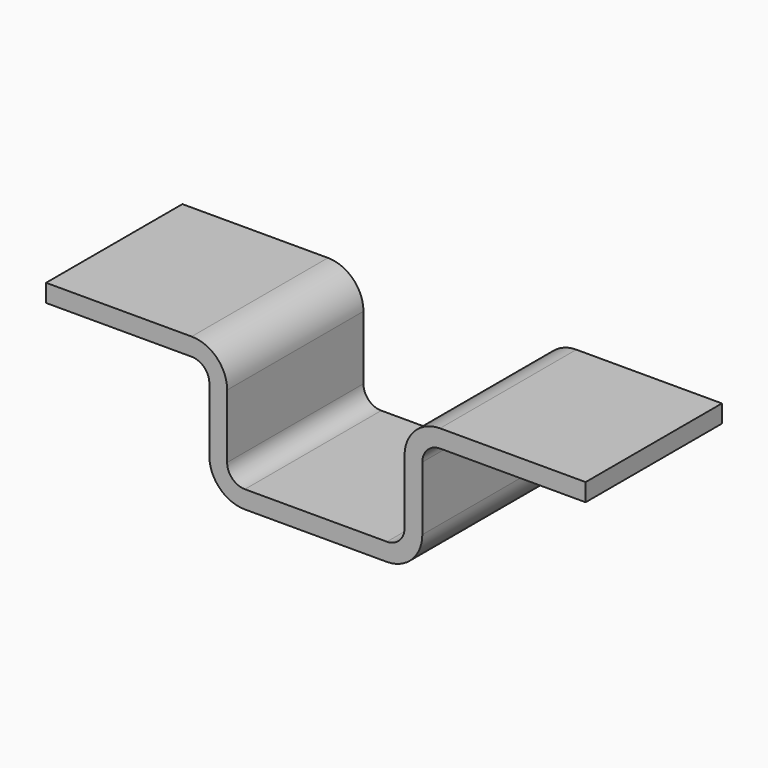
from build123d import *

# Parameters (mm, degrees)
F0_W     = 241.3
F0_H     = 76.2
F1_DEPTH = 60.325
F3_DEPTH = 76.201


with BuildPart() as f1:
    # F0 (on Top) → F1 (new body)
    with BuildSketch(Plane.XY):
        with Locations((120.65, 38.1)):
            Rectangle(F0_W, F0_H)
    extrude(amount=F1_DEPTH)

    # F2 (on Front) → F3 (cut, through all)
    with BuildSketch(Plane.XZ):
        with BuildLine():
            Line((65.0748, 52.3748), (0, 52.3748))
            Line((0, 52.3748), (0, 0))
            Line((0, 0), (88.9, 0))
            ThreePointArc((88.9, 0), (77.67468, 4.64968), (73.025, 15.875))
            Line((73.025, 15.875), (73.025, 44.4246))
            ThreePointArc((73.025, 44.4246), (70.69644, 50.04624), (65.0748, 52.3748))
        make_face()
        with BuildLine():
            Line((176.1998, 60.325), (65.1002, 60.325))
            ThreePointArc((65.1002, 60.325), (76.32552, 55.67532), (80.9752, 44.45))
            Line((80.9752, 44.45), (80.9752, 15.9004))
            ThreePointArc((80.9752, 15.9004), (83.30376, 10.27876), (88.9254, 7.9502))
            Line((88.9254, 7.9502), (152.44318, 7.9502))
            ThreePointArc((152.44318, 7.9502), (158.016327, 10.258673), (160.3248, 15.83182))
            Line((160.3248, 15.83182), (160.3248, 44.45))
            ThreePointArc((160.3248, 44.45), (164.97448, 55.67532), (176.1998, 60.325))
        make_face()
        with BuildLine():
            ThreePointArc((168.275, 15.875), (163.62532, 4.64968), (152.4, 0))
            Line((152.4, 0), (241.3, 0))
            Line((241.3, 0), (241.3, 52.3748))
            Line((241.3, 52.3748), (176.2252, 52.3748))
            ThreePointArc((176.2252, 52.3748), (170.60356, 50.04624), (168.275, 44.4246))
            Line((168.275, 44.4246), (168.275, 15.875))
        make_face()
    extrude(amount=-F3_DEPTH, mode=Mode.SUBTRACT)


solid = f1.part
